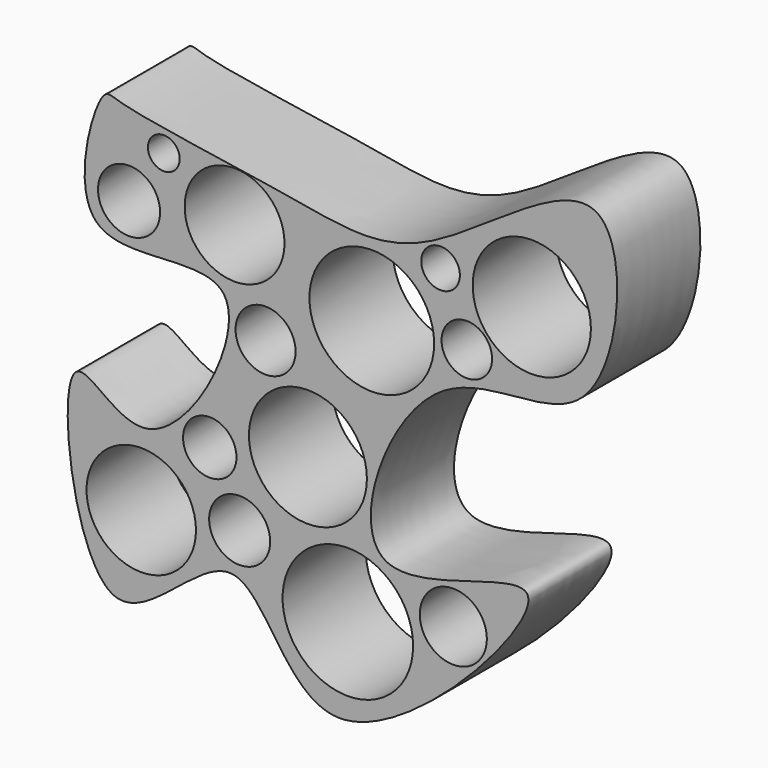
from build123d import *

# Parameters (mm, degrees)
F1_DEPTH = 31.75
F2_R     = 16.7162366145
F2_R_2   = 8.156533571
F2_R_3   = 9.3180995439
F2_R_4   = 19.9378356788
F2_R_5   = 18.0168968117
F2_R_6   = 9.1674223178
F2_R_7   = 15.2499085818
F2_R_8   = 9.4856346138
F2_R_9   = 4.8547692862
F2_R_10  = 19.0465414349
F2_R_11  = 5.9025878712
F2_R_12  = 7.7195968666
F2_R_13  = 18.0543888851
F2_R_14  = 10.2446638156
F3_DEPTH = 35.306


with BuildPart() as f1:
    # F0 (on Front) → F1 (new body)
    with BuildSketch(Plane.XZ):
        with BuildLine():
            add(Edge.make_bspline(
                [(-124.0854561329, 62.6207441092), (-127.6780801402, 57.7961500918), (-140.0831950222, 11.2071007697), (-65.7881167288, 40.6839656493), (-108.1412875197, -42.4325114142), (-141.6419612479, 9.2593475895), (-128.7318987955, -102.6861876596), (-79.5351048018, -28.2111607311), (-61.0501015141, -116.0282407871), (40.8415864435, -1.9907721148), (-59.0422534777, -57.6756308603), (-27.3675856758, 35.3805815485), (32.2044483165, 10.5342311651), (38.9599743058, 108.0965780536), (-27.018336108, 45.3796290845), (-62.8878293438, 54.4838498343), (-118.420224939, 61.3858430487), (-122.7254028897, 64.447182035), (-124.0854561329, 62.6207441092)],
                knots=[0, 0, 0, 0, 0.056292818, 0.1160769068, 0.1835079317, 0.229325324, 0.301715297, 0.3620691948, 0.4247236127, 0.5090217366, 0.5719215981, 0.6411876837, 0.7069620272, 0.7747587156, 0.8467090175, 0.9094087651, 0.9786893286, 1, 1, 1, 1], degree=3))
        make_face()
    extrude(amount=F1_DEPTH)

    # F2 (on face) → F3 (cut)
    with BuildSketch(Plane.XZ.offset(31.75)):
        with Locations((-112.3606413603, -44.7970852256)):
            Circle(F2_R)
        with Locations((-91.4359241724, -21.1432371289)):
            Circle(F2_R_2)
        with Locations((-82.2995752096, -40.4943972826)):
            Circle(F2_R_3)
        with Locations((-49.2555499077, -54.3649345636)):
            Circle(F2_R_4)
        with Locations((-61.4512600005, -13.9688597992)):
            Circle(F2_R_5)
        with Locations((-74.3844211102, 13.1471389905)):
            Circle(F2_R_6)
        with Locations((-83.8495120406, 41.1633886397)):
            Circle(F2_R_7)
        with Locations((-116.0903349519, 37.1477641165)):
            Circle(F2_R_8)
        with Locations((-105.473972857, 53.4214824438)):
            Circle(F2_R_9)
        with Locations((-41.9392250478, 29.0203858167)):
            Circle(F2_R_10)
        with Locations((-20.936306566, 49.9638840556)):
            Circle(F2_R_11)
        with Locations((-12.9119288176, 30.7065397501)):
            Circle(F2_R_12)
        with Locations((6.9344141521, 48.6121624708)):
            Circle(F2_R_13)
        with Locations((-17.0352254063, -45.1391339302)):
            Circle(F2_R_14)
    extrude(amount=-F3_DEPTH, mode=Mode.SUBTRACT)


solid = f1.part
